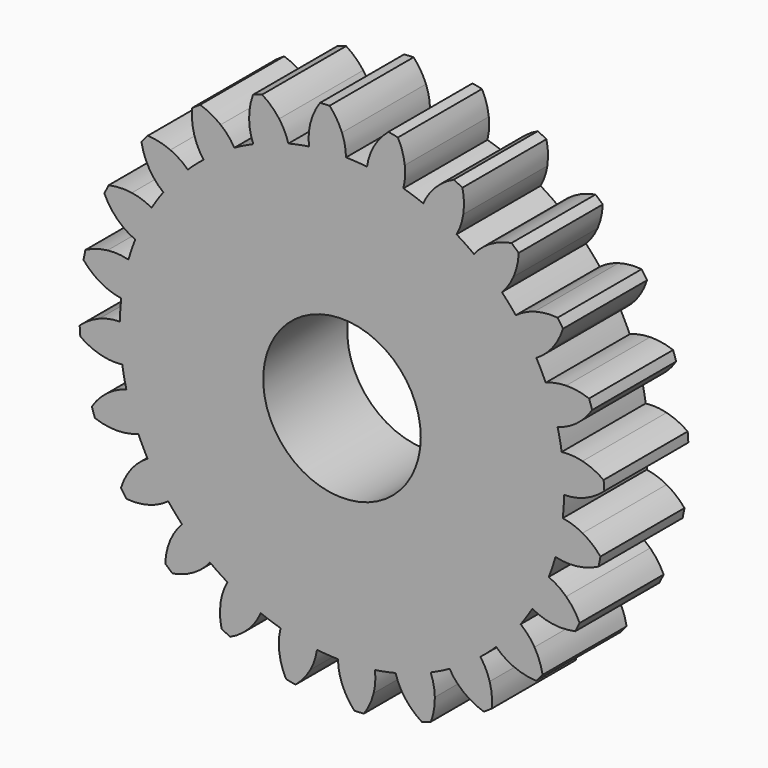
from build123d import *

# Parameters (mm, degrees)
F1_DEPTH      = 25.4
F2_COUNT      = 24
F2_ANGLE      = 345
F4_R          = 19.05
F5_DEPTH      = 33.274
F5_DEPTH_BACK = 30.226


with BuildPart() as f1:
    # F0 (on Front) → F1 (new body)
    with BuildSketch(Plane.XZ):
        with BuildLine():
            ThreePointArc((-7.9757188017, 53.1256411782), (-3.5135215054, 53.6059792153), (0.9731977694, 53.7121841587))
            ThreePointArc((0.9731977694, 53.7121841587), (0.7124440227, 56.2373887626), (0, 58.674))
            ThreePointArc((0, 58.674), (-1.2729395412, 61.191141061), (-2.9892332778, 63.4296025875))
            ThreePointArc((-2.9892332778, 63.4296025875), (-4.1529219168, 63.3613443418), (-5.315564527, 63.2771267818))
            ThreePointArc((-5.315564527, 63.2771267818), (-6.7249972733, 60.8337943177), (-7.6584938023, 58.1720357962))
            ThreePointArc((-7.6584938023, 58.1720357962), (-8.0468011809, 55.6632775003), (-7.9757188017, 53.1256411782))
        make_face()
        with BuildLine():
            ThreePointArc((-7.9757188017, 53.1256411782), (-35.0534039093, -40.7087793402), (53.721, 0))
            ThreePointArc((53.721, 0), (38.329016413, 37.6408334368), (0.9731977694, 53.7121841587))
            ThreePointArc((0.9731977694, 53.7121841587), (-3.5135215054, 53.6059792153), (-7.9757188017, 53.1256411782))
        make_face()
    extrude(amount=F1_DEPTH)


with BuildPart() as f2_1:
    # F2: instance of F1
    add(f1.part.rotate(Axis((0, 0, 0), (0, 1, 0)), 1 * F2_ANGLE / (F2_COUNT - 1)))


with BuildPart() as f2_2:
    # F2: instance of F1
    add(f1.part.rotate(Axis((0, 0, 0), (0, 1, 0)), 2 * F2_ANGLE / (F2_COUNT - 1)))


with BuildPart() as f2_3:
    # F2: instance of F1
    add(f1.part.rotate(Axis((0, 0, 0), (0, 1, 0)), 3 * F2_ANGLE / (F2_COUNT - 1)))


with BuildPart() as f2_4:
    # F2: instance of F1
    add(f1.part.rotate(Axis((0, 0, 0), (0, 1, 0)), 4 * F2_ANGLE / (F2_COUNT - 1)))


with BuildPart() as f2_5:
    # F2: instance of F1
    add(f1.part.rotate(Axis((0, 0, 0), (0, 1, 0)), 5 * F2_ANGLE / (F2_COUNT - 1)))


with BuildPart() as f2_6:
    # F2: instance of F1
    add(f1.part.rotate(Axis((0, 0, 0), (0, 1, 0)), 6 * F2_ANGLE / (F2_COUNT - 1)))


with BuildPart() as f2_7:
    # F2: instance of F1
    add(f1.part.rotate(Axis((0, 0, 0), (0, 1, 0)), 7 * F2_ANGLE / (F2_COUNT - 1)))


with BuildPart() as f2_8:
    # F2: instance of F1
    add(f1.part.rotate(Axis((0, 0, 0), (0, 1, 0)), 8 * F2_ANGLE / (F2_COUNT - 1)))


with BuildPart() as f2_9:
    # F2: instance of F1
    add(f1.part.rotate(Axis((0, 0, 0), (0, 1, 0)), 9 * F2_ANGLE / (F2_COUNT - 1)))


with BuildPart() as f2_10:
    # F2: instance of F1
    add(f1.part.rotate(Axis((0, 0, 0), (0, 1, 0)), 10 * F2_ANGLE / (F2_COUNT - 1)))


with BuildPart() as f2_11:
    # F2: instance of F1
    add(f1.part.rotate(Axis((0, 0, 0), (0, 1, 0)), 11 * F2_ANGLE / (F2_COUNT - 1)))


with BuildPart() as f2_12:
    # F2: instance of F1
    add(f1.part.rotate(Axis((0, 0, 0), (0, 1, 0)), 12 * F2_ANGLE / (F2_COUNT - 1)))


with BuildPart() as f2_13:
    # F2: instance of F1
    add(f1.part.rotate(Axis((0, 0, 0), (0, 1, 0)), 13 * F2_ANGLE / (F2_COUNT - 1)))


with BuildPart() as f2_14:
    # F2: instance of F1
    add(f1.part.rotate(Axis((0, 0, 0), (0, 1, 0)), 14 * F2_ANGLE / (F2_COUNT - 1)))


with BuildPart() as f2_15:
    # F2: instance of F1
    add(f1.part.rotate(Axis((0, 0, 0), (0, 1, 0)), 15 * F2_ANGLE / (F2_COUNT - 1)))


with BuildPart() as f2_16:
    # F2: instance of F1
    add(f1.part.rotate(Axis((0, 0, 0), (0, 1, 0)), 16 * F2_ANGLE / (F2_COUNT - 1)))


with BuildPart() as f2_17:
    # F2: instance of F1
    add(f1.part.rotate(Axis((0, 0, 0), (0, 1, 0)), 17 * F2_ANGLE / (F2_COUNT - 1)))


with BuildPart() as f2_18:
    # F2: instance of F1
    add(f1.part.rotate(Axis((0, 0, 0), (0, 1, 0)), 18 * F2_ANGLE / (F2_COUNT - 1)))


with BuildPart() as f2_19:
    # F2: instance of F1
    add(f1.part.rotate(Axis((0, 0, 0), (0, 1, 0)), 19 * F2_ANGLE / (F2_COUNT - 1)))


with BuildPart() as f2_20:
    # F2: instance of F1
    add(f1.part.rotate(Axis((0, 0, 0), (0, 1, 0)), 20 * F2_ANGLE / (F2_COUNT - 1)))


with BuildPart() as f2_21:
    # F2: instance of F1
    add(f1.part.rotate(Axis((0, 0, 0), (0, 1, 0)), 21 * F2_ANGLE / (F2_COUNT - 1)))


with BuildPart() as f2_22:
    # F2: instance of F1
    add(f1.part.rotate(Axis((0, 0, 0), (0, 1, 0)), 22 * F2_ANGLE / (F2_COUNT - 1)))


with BuildPart() as f2_23:
    # F2: instance of F1
    add(f1.part.rotate(Axis((0, 0, 0), (0, 1, 0)), 23 * F2_ANGLE / (F2_COUNT - 1)))


with BuildPart() as f1_1:
    add(f1.part)

    # F3: union F2_1, F2_2, F2_3, F2_4, F2_5, F2_6, F2_7, F2_8, F2_9, F2_10, F2_11, F2_12, F2_13, F2_14, F2_15, F2_16, F2_17, F2_18, F2_19, F2_20, F2_21, F2_22, F2_23
    add(f2_1.part)
    add(f2_2.part)
    add(f2_3.part)
    add(f2_4.part)
    add(f2_5.part)
    add(f2_6.part)
    add(f2_7.part)
    add(f2_8.part)
    add(f2_9.part)
    add(f2_10.part)
    add(f2_11.part)
    add(f2_12.part)
    add(f2_13.part)
    add(f2_14.part)
    add(f2_15.part)
    add(f2_16.part)
    add(f2_17.part)
    add(f2_18.part)
    add(f2_19.part)
    add(f2_20.part)
    add(f2_21.part)
    add(f2_22.part)
    add(f2_23.part)

    # F4 (on face) → F5 (cut, two sides)
    with BuildSketch(Plane.XZ.offset(25.4)) as f5_sk:
        Circle(F4_R)
    extrude(amount=F5_DEPTH, mode=Mode.SUBTRACT)
    extrude(f5_sk.sketch, amount=-F5_DEPTH_BACK, mode=Mode.SUBTRACT)


solid = f1_1.part
